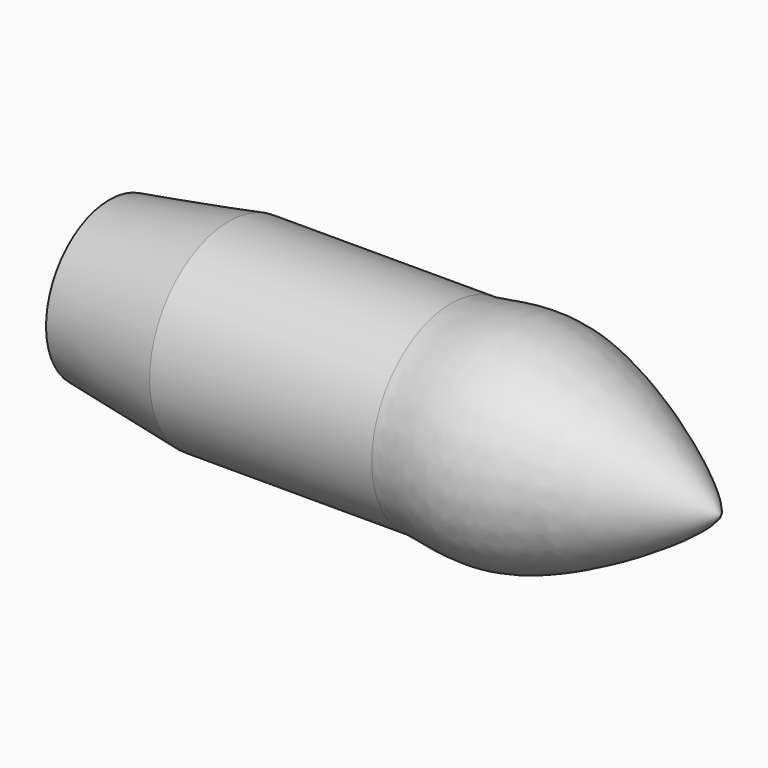
from build123d import *


with BuildPart() as f1:
    # F0 (on Front) → F1 (revolve)
    with BuildSketch(Plane.XZ):
        with BuildLine():
            Line((0, 1200), (0, 0))
            Line((0, 0), (9252.4, 0))
            add(Edge.make_bspline(
                [(5174.3807792664, 1500), (5563.7092590332, 1517.7994966507), (6646.1334813255, 1941.3245665034), (9214.3006096285, 263.3719412994), (9252.4, 0)],
                knots=[0, 0, 0, 0, 0.4230928074, 1, 1, 1, 1], degree=3))
            Line((5174.3807792664, 1500), (1809.4680309296, 1500))
            Line((1809.4680309296, 1500), (0, 1200))
        make_face()
    revolve(axis=Axis((4626.2, 0, 0), (1, 0, 0)))


solid = f1.part
